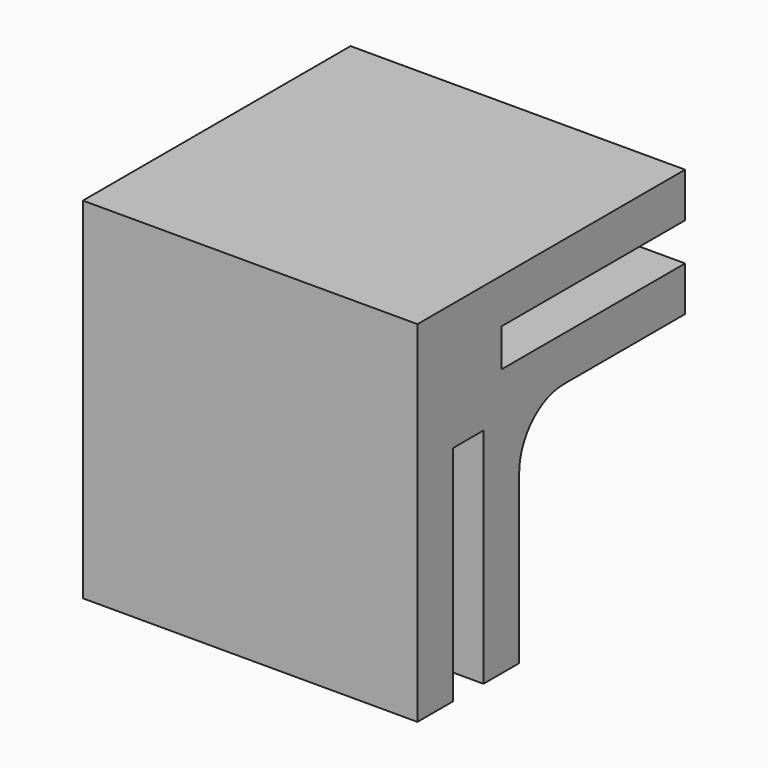
from build123d import *

# Parameters (mm, degrees)
F4_DEPTH  = 20
F5_W      = 3.4
F5_H      = 20.6
F5_W_2    = 20.6
F5_H_2    = 3.4
F5_W_3    = 18.6
F5_H_3    = 18.6
F6_DEPTH  = 2
F7_DEPTH  = 2
F8_W      = 20.6
F8_H      = 9.4
F9_DEPTH  = 3.4
F10_W     = 30
F10_H     = 30
F11_DEPTH = 4
F12_R     = 5


with BuildPart() as f4:
    # F3 (on Top) → F4 (new body)
    with BuildSketch(Plane.XY):
        Polygon((0, 18.6), (-4, 18.6), (-4, -2), (-7.4, -2), (-7.4, 18.6), (-11.4, 18.6), (-11.4, -11.4), (18.6, -11.4), (18.6, -7.4), (-2, -7.4), (-2, -4), (18.6, -4), (18.6, 0), (0, 0), align=None)
    extrude(amount=F4_DEPTH)

    # F5 (on face) → F6 (join)
    with BuildSketch(Plane.XY.offset(20)):
        with Locations((-5.7, 8.3)):
            Rectangle(F5_W, F5_H)
        Polygon((-11.4, 18.6), (-11.4, -11.4), (18.6, -11.4), (18.6, -7.4), (-2, -7.4), (-2, -4), (18.6, -4), (18.6, 0), (0, 0), (0, 18.6), (-4, 18.6), (-4, -2), (-7.4, -2), (-7.4, 18.6), align=None)
        with Locations((8.3, -5.7)):
            Rectangle(F5_W_2, F5_H_2)
        with Locations((9.3, 9.3)):
            Rectangle(F5_W_3, F5_H_3)
    extrude(amount=F6_DEPTH)

    # F7 (add): a face of the model
    f7_faces = [f4.faces().sort_by_distance(p)[0] for p in [
        (3.6, 3.6, 22),
    ]]
    extrude(f7_faces, amount=F7_DEPTH)

    # F8 (on face) → F9 (join)
    with BuildSketch(Plane.XY.offset(24)):
        Polygon((-2, 18.6), (-11.4, 18.6), (-11.4, -11.4), (-2, -11.4), (-2, -2), align=None)
        Polygon((-2, 18.6), (-11.4, 18.6), (-11.4, -11.4), (-2, -11.4), (-2, -2), align=None)
        with Locations((8.3, -6.7)):
            Rectangle(F8_W, F8_H)
    extrude(amount=F9_DEPTH)

    # F10 (on face) → F11 (join)
    with BuildSketch(Plane.XY.offset(27.4)):
        with Locations((3.6, 3.6)):
            Rectangle(F10_W, F10_H)
    extrude(amount=F11_DEPTH)

    # F12
    f12_edges = [f4.edges().sort_by_distance(p)[0] for p in [
        (0, 0, 10),
        (0, 9.3, 20),
        (9.3, 0, 20),
    ]]
    fillet(f12_edges, radius=F12_R)


solid = f4.part
